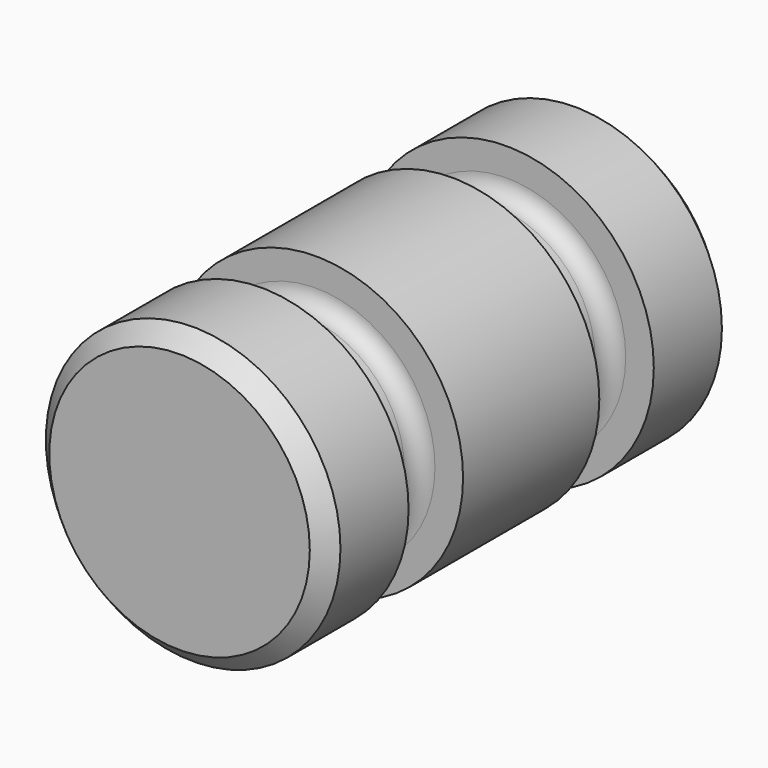
from build123d import *

# Parameters (mm, degrees)
F0_R      = 4.325
F1_DEPTH  = 15
F4_R      = 4.5
F4_R_2    = 3
F5_DEPTH  = 2
F6_R      = 4.5
F6_R_2    = 3
F7_DEPTH  = 2
F8_SIZE   = 0.5
F9_R      = 0.5
F10_R     = 2
F11_DEPTH = 5


with BuildPart() as f1:
    # F0 (on Front) → F1 (new body)
    with BuildSketch(Plane.XZ):
        Circle(F0_R)
    extrude(amount=-F1_DEPTH)

    # F4 (on offset) → F5 (cut)
    with BuildSketch(Plane.XZ.offset(-3)):
        Circle(F4_R)
        Circle(F4_R_2, mode=Mode.SUBTRACT)
    extrude(amount=-F5_DEPTH, mode=Mode.SUBTRACT)

    # F6 (on offset) → F7 (cut)
    with BuildSketch(Plane.XZ.offset(-10)):
        Circle(F6_R)
        Circle(F6_R_2, mode=Mode.SUBTRACT)
    extrude(amount=-F7_DEPTH, mode=Mode.SUBTRACT)

    # F8
    f8_edges = [f1.edges().sort_by_distance(p)[0] for p in [
        (-4.325, 0, 0),
        (-4.325, 15, 0),
    ]]
    chamfer(f8_edges, length=F8_SIZE)

    # F9
    f9_edges = [f1.edges().sort_by_distance(p)[0] for p in [
        (-3, 5, 0),
        (-3, 12, 0),
        (-3, 10, 0),
        (-3, 3, 0),
    ]]
    fillet(f9_edges, radius=F9_R)

    # F10 (on face) → F11 (cut)
    with BuildSketch(Plane(origin=(0, 15, 0), x_dir=(-1, 0, 0), z_dir=(0, 1, 0))):
        Circle(F10_R)
    extrude(amount=-F11_DEPTH, mode=Mode.SUBTRACT)


solid = f1.part
